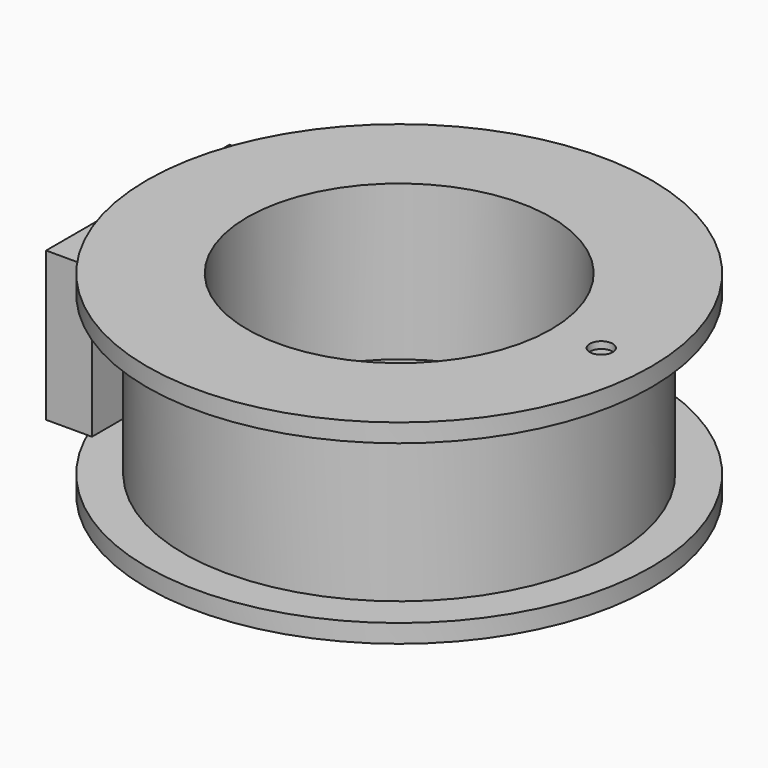
from build123d import *

# Parameters (mm, degrees)
F1_R      = 11
F1_R_2    = 6.625
F2_DEPTH  = 8.5
F3_R      = 6.625
F3_R_2    = 2.5
F5_DEPTH  = 1.75
F9_R      = 11
F9_R_2    = 9.4
F10_DEPTH = 6.9
F11_R     = 0.5
F12_DEPTH = 0.3
F13_W     = 2
F13_H     = 6.5
F14_DEPTH = 5


with BuildPart() as f2:
    # F1 (on Top) → F2 (new body)
    with BuildSketch(Plane.XY):
        Circle(F1_R)
        Circle(F1_R_2, mode=Mode.SUBTRACT)
    extrude(amount=F2_DEPTH)

    # F3 (on Top) → F5 (join)
    with BuildSketch(Plane.XY):
        Circle(F3_R)
        Circle(F3_R_2, mode=Mode.SUBTRACT)
    extrude(amount=F5_DEPTH)

    # F9 (on offset) → F10 (cut)
    with BuildSketch(Plane.XY.offset(0.8)):
        Circle(F9_R)
        Circle(F9_R_2, mode=Mode.SUBTRACT)
    extrude(amount=F10_DEPTH, mode=Mode.SUBTRACT)

    # F11 (on face) → F12 (cut)
    with BuildSketch(Plane.XY.offset(8.5)):
        with Locations((8.8125, 0)):
            Circle(F11_R)
    extrude(amount=-F12_DEPTH, mode=Mode.SUBTRACT)


with BuildPart() as f14:
    # F13 (on Front) → F14 (new body, symmetric)
    with BuildSketch(Plane.XZ):
        with Locations((-10.4, 4.45)):
            Rectangle(F13_W, F13_H)
    extrude(amount=F14_DEPTH, both=True)


solid = Compound([f2.part, f14.part])
